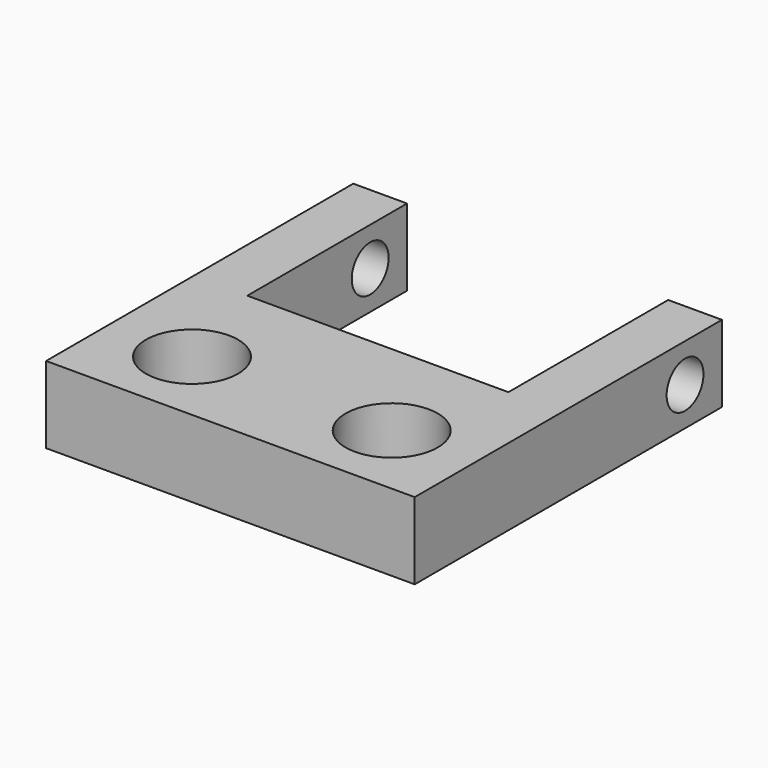
from build123d import *

# Parameters (mm, degrees)
F1_DEPTH       = 2.5
F3_D           = 3.2
F3_CBORE_D     = 6
F3_CBORE_DEPTH = 3.4
F5_D           = 3


with BuildPart() as f1:
    # F0 (on Top) → F1 (new body, symmetric)
    with BuildSketch(Plane.XY):
        Polygon((12, -12.5), (12, 12.5), (8.5, 12.5), (8.5, -0.5), (-8.5, -0.5), (-8.5, 12.5), (-12, 12.5), (-12, -12.5), align=None)
    extrude(amount=F1_DEPTH, both=True)

    # F3 (through all)
    with Locations(Plane.XY.offset(2.5)):
        with Locations((-6.5, -7.5), (6.5, -7.5)):
            CounterBoreHole(F3_D / 2, F3_CBORE_D / 2, F3_CBORE_DEPTH)

    # F5 (through all)
    with Locations(Plane.YZ.offset(12)):
        with Locations((9.5, 0)):
            Hole(F5_D / 2)


solid = f1.part
